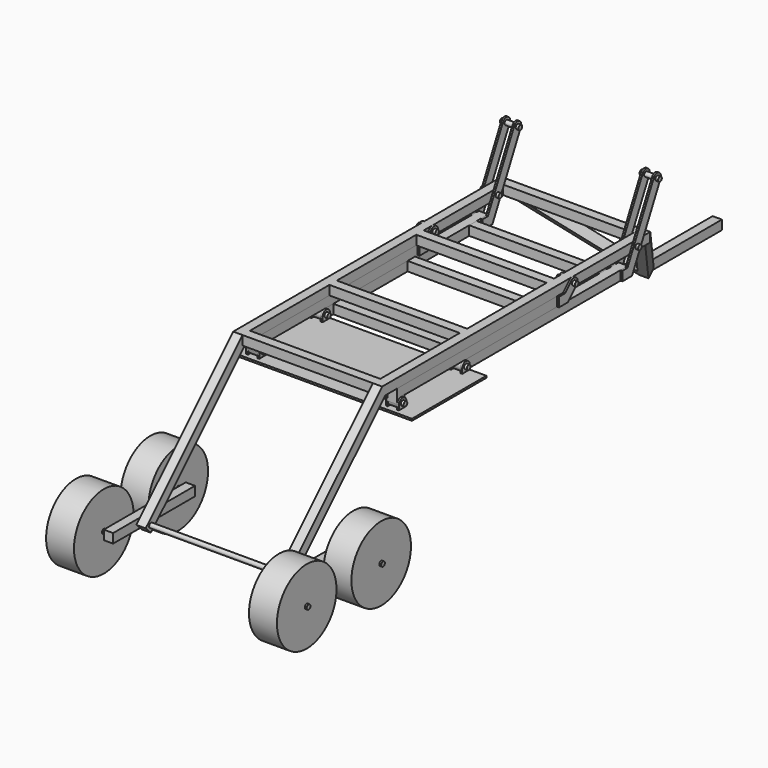
from build123d import *

# Parameters (mm, degrees)
F4_W           = 50
F4_H           = 50
F5_DEPTH       = 900
F6_T           = -5
F8_W           = 50
F8_H           = 50
F8_W_2         = 40
F8_H_2         = 40
F9_DEPTH       = 700
F11_R          = 12.5
F12_DEPTH      = 50
F13_R          = 12.5
F14_DEPTH      = 50
F15_R          = 12.5
F16_DEPTH      = 10
F19_R          = 12.5
F20_DEPTH      = 15
F20_DEPTH_BACK = 85
F21_W          = 1000
F21_H          = 500
F22_DEPTH      = 10
F23_R          = 12.5
F24_DEPTH      = 10
F28_R          = 12.5
F29_DEPTH      = 50
F31_R          = 12.5
F32_DEPTH      = 65
F32_DEPTH_BACK = 865
F33_W          = 550
F33_H          = 50
F33_R          = 12.5
F34_DEPTH      = 50
F35_R          = 12.5
F36_DEPTH      = 180
F36_DEPTH_BACK = 50
F38_R          = 200
F38_R_2        = 12.5
F39_DEPTH      = 150
F41_W          = 50
F41_H          = 50
F42_DEPTH      = 700
F43_W          = 500
F43_H          = 50
F44_DEPTH      = 25
F47_DEPTH      = 50


with BuildPart() as f5:
    # F4 (on Front) → F5 (new body, symmetric)
    with BuildSketch(Plane.XZ):
        with Locations((375, 0)):
            Rectangle(F4_W, F4_H)
    extrude(amount=F5_DEPTH, both=True)

    # F6
    f6_openings = [f5.faces().sort_by_distance(p)[0] for p in [
        (375, -900, 0),
        (375, 900, 0),
    ]]
    offset(amount=F6_T, openings=f6_openings)


with BuildPart() as f7_1:
    # F7: instance of F5
    add(f5.part.mirror(Plane.YZ))


with BuildPart() as f5_1:
    add(f5.part)

    add(f7_1.part)  # F9 merges F7_1
    # F8 (on face) → F9 (join, through all)
    with BuildSketch(Plane(origin=(350, 0, 0), x_dir=(0, -1, 0), z_dir=(-1, 0, 0))):
        with Locations((875, 0)):
            Rectangle(F8_W, F8_H)
        with Locations((875, 0)):
            Rectangle(F8_W_2, F8_H_2, mode=Mode.SUBTRACT)
        with Locations((291.6666666667, 0)):
            Rectangle(F8_W, F8_H)
        with Locations((291.6666666667, 0)):
            Rectangle(F8_W_2, F8_H_2, mode=Mode.SUBTRACT)
        with Locations((-291.6666666667, 0)):
            Rectangle(F8_W, F8_H)
        with Locations((-291.6666666667, 0)):
            Rectangle(F8_W_2, F8_H_2, mode=Mode.SUBTRACT)
        with Locations((-875, 0)):
            Rectangle(F8_W, F8_H)
        with Locations((-875, 0)):
            Rectangle(F8_W_2, F8_H_2, mode=Mode.SUBTRACT)
    extrude(amount=F9_DEPTH)

    # F30: F29 across plane


with BuildPart() as f12:
    # F11 (on face) → F12 (new body, through all)
    with BuildSketch(Plane(origin=(-400, 0, 0), x_dir=(0, -1, 0), z_dir=(-1, 0, 0))):
        Polygon((800, -25), (-325, -25), (-325, -75), (750, -75), (800, -75), align=None)
        with BuildLine():
            Line((800, -100), (800, -75))
            Line((800, -75), (750, -75))
            Line((750, -75), (750, -100))
            ThreePointArc((750, -100), (775, -125), (800, -100))
        make_face()
        with Locations((775, -100)):
            Circle(F11_R, mode=Mode.SUBTRACT)
    extrude(amount=-F12_DEPTH)


with BuildPart() as f14:
    # F13 (on face) → F14 (new body, through all)
    with BuildSketch(Plane(origin=(-400, 0, 0), x_dir=(0, -1, 0), z_dir=(-1, 0, 0))):
        with BuildLine():
            Line((-750, -125), (350, -125))
            ThreePointArc((350, -125), (375, -100), (350, -75))
            Line((350, -75), (-750, -75))
            Line((-750, -75), (-750, -125))
        make_face()
        with Locations((350, -100)):
            Circle(F13_R, mode=Mode.SUBTRACT)
    extrude(amount=-F14_DEPTH)


with BuildPart() as f16:
    # F15 (on face) → F16 (new body)
    with BuildSketch(Plane(origin=(-400, 0, 0), x_dir=(0, -1, 0), z_dir=(-1, 0, 0))):
        with BuildLine():
            Line((-335.3553390593, -75), (-275, -75))
            Line((-275, -75), (-275, -25))
            Line((-275, -25), (-314.6446609407, -25))
            Line((-314.6446609407, -25), (-357.3223304703, 17.6776695297))
            ThreePointArc((-357.3223304703, 17.6776695297), (-392.6776695297, 17.6776695297), (-392.6776695297, -17.6776695297))
            Line((-392.6776695297, -17.6776695297), (-335.3553390593, -75))
        make_face()
        with Locations((-375, 0)):
            Circle(F15_R, mode=Mode.SUBTRACT)
    extrude(amount=F16_DEPTH)


with BuildPart() as f16b:
    # F15 (on face) → F16, piece 2 (new body)
    with BuildSketch(Plane(origin=(-400, 0, 0), x_dir=(0, -1, 0), z_dir=(-1, 0, 0))):
        with BuildLine():
            ThreePointArc((-911.803398875, 279.5084971875), (-945.3444185375, 290.688837075), (-956.524758425, 257.1478174125))
            Line((-956.524758425, 257.1478174125), (-765.4508497187, -125))
            Line((-765.4508497187, -125), (-700, -125))
            Line((-700, -125), (-700, -75))
            Line((-700, -75), (-734.5491502813, -75))
            Line((-734.5491502813, -75), (-911.803398875, 279.5084971875))
        make_face()
        with Locations((-800, 0)):
            Circle(F15_R, mode=Mode.SUBTRACT)
        with Locations((-934.16407865, 268.3281573)):
            Circle(F15_R, mode=Mode.SUBTRACT)
    extrude(amount=F16_DEPTH)


with BuildPart() as f18_1:
    # F18: instance of F16b
    add(f16b.part.mirror(Plane(origin=(-375, 291.6666666667, 0), x_dir=(0, -1, 0), z_dir=(-1, 0, 0))))


with BuildPart() as f18_2:
    # F18: instance of F16
    add(f16.part.mirror(Plane(origin=(-375, 291.6666666667, 0), x_dir=(0, -1, 0), z_dir=(-1, 0, 0))))


with BuildPart() as f20:
    # F19 (on face) → F20 (new body, two sides)
    with BuildSketch(Plane(origin=(-410, 0, 0), x_dir=(0, -1, 0), z_dir=(-1, 0, 0))) as f20_sk:
        with Locations((-800, 0)):
            Circle(F19_R)
    extrude(amount=F20_DEPTH)
    extrude(f20_sk.sketch, amount=-F20_DEPTH_BACK)


with BuildPart() as f20b:
    # F19 (on face) → F20, piece 2 (new body, two sides)
    with BuildSketch(Plane(origin=(-410, 0, 0), x_dir=(0, -1, 0), z_dir=(-1, 0, 0))) as f20_2_sk:
        with Locations((-375, 0)):
            Circle(F19_R)
    extrude(amount=F20_DEPTH)
    extrude(f20_2_sk.sketch, amount=-F20_DEPTH_BACK)


with BuildPart() as f20c:
    # F19 (on face) → F20, piece 3 (new body, two sides)
    with BuildSketch(Plane(origin=(-410, 0, 0), x_dir=(0, -1, 0), z_dir=(-1, 0, 0))) as f20_3_sk:
        with Locations((-934.16407865, 268.3281573)):
            Circle(F19_R)
    extrude(amount=F20_DEPTH)
    extrude(f20_3_sk.sketch, amount=-F20_DEPTH_BACK)


with BuildPart() as f20d:
    # F19 (on face) → F20, piece 4 (new body, two sides)
    with BuildSketch(Plane(origin=(-410, 0, 0), x_dir=(0, -1, 0), z_dir=(-1, 0, 0))) as f20_4_sk:
        with Locations((350, -100)):
            Circle(F19_R)
    extrude(amount=F20_DEPTH)
    extrude(f20_4_sk.sketch, amount=-F20_DEPTH_BACK)


with BuildPart() as f20e:
    # F19 (on face) → F20, piece 5 (new body, two sides)
    with BuildSketch(Plane(origin=(-410, 0, 0), x_dir=(0, -1, 0), z_dir=(-1, 0, 0))) as f20_5_sk:
        with Locations((775, -100)):
            Circle(F19_R)
    extrude(amount=F20_DEPTH)
    extrude(f20_5_sk.sketch, amount=-F20_DEPTH_BACK)


with BuildPart() as f22:
    # F21 (on face) → F22 (new body)
    with BuildSketch(Plane(origin=(0, 0, -125), x_dir=(1, 0, 0), z_dir=(0, 0, -1))):
        with Locations((0, 575)):
            Rectangle(F21_W, F21_H)
    extrude(amount=F22_DEPTH)


with BuildPart() as f24:
    # F23 (on face) → F24 (new body)
    with BuildSketch(Plane(origin=(-400, 0, 0), x_dir=(0, -1, 0), z_dir=(-1, 0, 0))):
        with BuildLine():
            ThreePointArc((375, -100), (350, -75), (325, -100))
            Line((325, -100), (325, -125))
            Line((325, -125), (375, -125))
            Line((375, -125), (375, -100))
        make_face()
        with Locations((350, -100)):
            Circle(F23_R, mode=Mode.SUBTRACT)
    extrude(amount=F24_DEPTH)


with BuildPart() as f24b:
    # F23 (on face) → F24, piece 2 (new body)
    with BuildSketch(Plane(origin=(-400, 0, 0), x_dir=(0, -1, 0), z_dir=(-1, 0, 0))):
        with BuildLine():
            ThreePointArc((800, -100), (775, -75), (750, -100))
            Line((750, -100), (750, -125))
            Line((750, -125), (800, -125))
            Line((800, -125), (800, -100))
        make_face()
        with Locations((775, -100)):
            Circle(F23_R, mode=Mode.SUBTRACT)
    extrude(amount=F24_DEPTH)


with BuildPart() as f25_1:
    # F25: instance of F24
    add(f24.part.mirror(Plane(origin=(-375, 291.6666666667, 0), x_dir=(0, -1, 0), z_dir=(-1, 0, 0))))


with BuildPart() as f25_2:
    # F25: instance of F24b
    add(f24b.part.mirror(Plane(origin=(-375, 291.6666666667, 0), x_dir=(0, -1, 0), z_dir=(-1, 0, 0))))


with BuildPart() as f26_1:
    # F26: instance of F20c
    add(f20c.part.mirror(Plane.YZ))


with BuildPart() as f26_2:
    # F26: instance of F20
    add(f20.part.mirror(Plane.YZ))


with BuildPart() as f26_3:
    # F26: instance of F20b
    add(f20b.part.mirror(Plane.YZ))


with BuildPart() as f26_4:
    # F26: instance of F20d
    add(f20d.part.mirror(Plane.YZ))


with BuildPart() as f26_5:
    # F26: instance of F20e
    add(f20e.part.mirror(Plane.YZ))


with BuildPart() as f26_6:
    # F26: instance of F16b
    add(f16b.part.mirror(Plane.YZ))


with BuildPart() as f26_7:
    # F26: instance of F18_1
    add(f18_1.part.mirror(Plane.YZ))


with BuildPart() as f26_8:
    # F26: instance of F16
    add(f16.part.mirror(Plane.YZ))


with BuildPart() as f26_9:
    # F26: instance of F18_2
    add(f18_2.part.mirror(Plane.YZ))


with BuildPart() as f26_10:
    # F26: instance of F14
    add(f14.part.mirror(Plane.YZ))


with BuildPart() as f26_11:
    # F26: instance of F12
    add(f12.part.mirror(Plane.YZ))


with BuildPart() as f26_12:
    # F26: instance of F24
    add(f24.part.mirror(Plane.YZ))


with BuildPart() as f26_13:
    # F26: instance of F25_1
    add(f25_1.part.mirror(Plane.YZ))


with BuildPart() as f26_14:
    # F26: instance of F24b
    add(f24b.part.mirror(Plane.YZ))


with BuildPart() as f26_15:
    # F26: instance of F25_2
    add(f25_2.part.mirror(Plane.YZ))


with BuildPart() as f29:
    # F28 (on face) → F29 (new body)
    with BuildSketch(Plane(origin=(-400, 0, 0), x_dir=(0, -1, 0), z_dir=(-1, 0, 0))):
        Polygon((1550, -625), (900, 25), (864.6446609407, -10.3553390593), (1514.6446609407, -660.3553390593), align=None)
        with Locations((1514.6446609407, -625)):
            Circle(F28_R, mode=Mode.SUBTRACT)
    extrude(amount=-F29_DEPTH)


with BuildPart() as f5_2:
    add(f5_1.part)
    add(f29.part.mirror(Plane.YZ))


    add(f29.part)  # F32 merges F29
    # F31 (on face) → F32 (join, two sides)
    with BuildSketch(Plane(origin=(-400, 0, 0), x_dir=(0, -1, 0), z_dir=(-1, 0, 0))) as f32_sk:
        with Locations((1514.6446609407, -625)):
            Circle(F31_R)
    extrude(amount=F32_DEPTH)
    extrude(f32_sk.sketch, amount=-F32_DEPTH_BACK)


with BuildPart() as f34:
    # F33 (on face) → F34 (new body)
    with BuildSketch(Plane(origin=(-400, 0, 0), x_dir=(0, -1, 0), z_dir=(-1, 0, 0))):
        with Locations((1431.3113276073, -625)):
            Rectangle(F33_W, F33_H)
        with Locations((1181.3113276073, -625)):
            Circle(F33_R, mode=Mode.SUBTRACT)
        with Locations((1514.6446609407, -625)):
            Circle(F33_R, mode=Mode.SUBTRACT)
        with Locations((1681.3113276073, -625)):
            Circle(F33_R, mode=Mode.SUBTRACT)
    extrude(amount=F34_DEPTH)

    # F35 (on face) → F36 (join, two sides)
    with BuildSketch(Plane(origin=(-450, 0, 0), x_dir=(0, -1, 0), z_dir=(-1, 0, 0))) as f36_sk:
        with Locations((1681.3113276073, -625)):
            Circle(F35_R)
        with Locations((1181.3113276073, -625)):
            Circle(F35_R)
    extrude(amount=F36_DEPTH)
    extrude(f36_sk.sketch, amount=-F36_DEPTH_BACK)


with BuildPart() as f39:
    # F38 (on offset) → F39 (new body)
    with BuildSketch(Plane(origin=(-620, 0, 0), x_dir=(0, -1, 0), z_dir=(-1, 0, 0))):
        with Locations((1181.3113276073, -625)):
            Circle(F38_R)
        with Locations((1181.3113276073, -625)):
            Circle(F38_R_2, mode=Mode.SUBTRACT)
    extrude(amount=-F39_DEPTH)


with BuildPart() as f39b:
    # F38 (on offset) → F39, piece 2 (new body)
    with BuildSketch(Plane(origin=(-620, 0, 0), x_dir=(0, -1, 0), z_dir=(-1, 0, 0))):
        with Locations((1681.3113276073, -625)):
            Circle(F38_R)
        with Locations((1681.3113276073, -625)):
            Circle(F38_R_2, mode=Mode.SUBTRACT)
    extrude(amount=-F39_DEPTH)


with BuildPart() as f40_1:
    # F40: instance of F39
    add(f39.part.mirror(Plane.YZ))


with BuildPart() as f40_2:
    # F40: instance of F39b
    add(f39b.part.mirror(Plane.YZ))


with BuildPart() as f40_3:
    # F40: instance of F34
    add(f34.part.mirror(Plane.YZ))


with BuildPart() as f42:
    # F41 (on face) → F42 (new body, through all)
    with BuildSketch(Plane(origin=(350, 0, 0), x_dir=(0, -1, 0), z_dir=(-1, 0, 0))):
        with Locations((-647.1627116203, -100)):
            Rectangle(F41_W, F41_H)
    extrude(amount=F42_DEPTH)


with BuildPart() as f42b:
    # F41 (on face) → F42, piece 2 (new body, through all)
    with BuildSketch(Plane(origin=(350, 0, 0), x_dir=(0, -1, 0), z_dir=(-1, 0, 0))):
        with Locations((265.3730750084, -100)):
            Rectangle(F41_W, F41_H)
    extrude(amount=F42_DEPTH)


with BuildPart() as f42c:
    # F41 (on face) → F42, piece 3 (new body, through all)
    with BuildSketch(Plane(origin=(350, 0, 0), x_dir=(0, -1, 0), z_dir=(-1, 0, 0))):
        with Locations((-233.3383619785, -100)):
            Rectangle(F41_W, F41_H)
    extrude(amount=F42_DEPTH)


with BuildPart() as f44:
    # F43 (on Right) → F44 (new body, symmetric)
    with BuildSketch(Plane.YZ):
        with Locations((1600, -450)):
            Rectangle(F43_W, F43_H)
    extrude(amount=F44_DEPTH, both=True)


with BuildPart() as f47:
    # F46 (on 3pt) → F47 (new body)
    with BuildSketch(Plane(origin=(0, 462.5, 462.5), x_dir=(1, 0, 0), z_dir=(0, 0.7071067812, 0.7071067812))):
        Polygon((343.2040599194, 618.7184335382), (400, 618.7184335382), (25, 1314.7022321142), (-25, 1314.7022321142), (-400, 618.7184335382), (-343.2040599194, 618.7184335382), (0, 1255.6903410299), align=None)
    extrude(amount=-F47_DEPTH)


solid = Compound([f12.part, f14.part, f16.part, f16b.part, f18_1.part, f18_2.part, f20.part, f20b.part, f20c.part, f20d.part, f20e.part, f22.part, f24.part, f24b.part, f25_1.part, f25_2.part, f26_1.part, f26_2.part, f26_3.part, f26_4.part, f26_5.part, f26_6.part, f26_7.part, f26_8.part, f26_9.part, f26_10.part, f26_11.part, f26_12.part, f26_13.part, f26_14.part, f26_15.part, f5_2.part, f34.part, f39.part, f39b.part, f40_1.part, f40_2.part, f40_3.part, f42.part, f42b.part, f42c.part, f44.part, f47.part])
